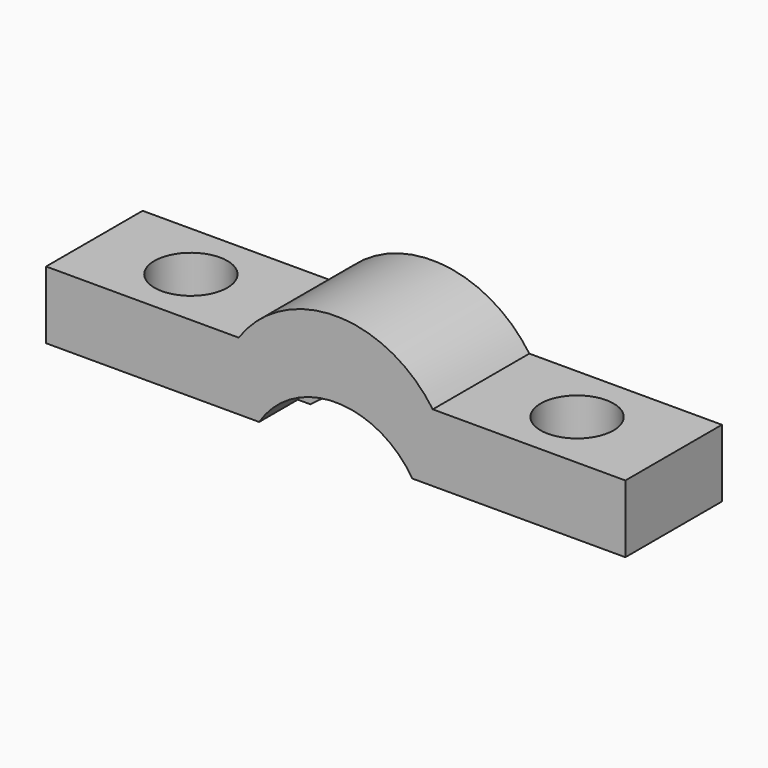
from build123d import *

# Parameters (mm, degrees)
SKETCH_W        = 24
SKETCH_H        = 5
PAD_DEPTH       = 5
SKETCH001_R     = 3.75
POCKET_DEPTH    = 2
SKETCH002_R     = 3.75
POCKET001_DEPTH = 2
SKETCH003_R     = 4
POCKET002_DEPTH = 5
SKETCH004_R     = 1.51
POCKET003_DEPTH = 3


with BuildPart() as part:
    # Sketch → Pad (new body)
    with BuildSketch(Plane.XY):
        Rectangle(SKETCH_W, SKETCH_H)
    extrude(amount=PAD_DEPTH)

    # Sketch001 (on Face3 of Pad) → Pocket (cut)
    with BuildSketch(Plane.XZ.offset(2.5)):
        with Locations((0, -2)):
            Circle(SKETCH001_R)
    extrude(amount=-POCKET_DEPTH, mode=Mode.SUBTRACT)

    # Sketch002 (on Face1 of Pocket) → Pocket001 (cut)
    with BuildSketch(Plane(origin=(0, 2.5, 0), x_dir=(-1, 0, 0), z_dir=(0, 1, 0))):
        with Locations((0, -2)):
            Circle(SKETCH002_R)
    extrude(amount=-POCKET001_DEPTH, mode=Mode.SUBTRACT)

    # Sketch003 (on Face7 of Pocket001) → Pocket002 (cut)
    with BuildSketch(Plane.XZ.offset(2.5)):
        with Locations((0, -3)):
            Circle(SKETCH003_R)
        with BuildLine():
            ThreePointArc((4.021194, 2.8), (0, 4.9), (-4.021194, 2.8))
            Line((-4.021194, 2.8), (-12, 2.8))
            Line((-12, 2.8), (-12, 5))
            Line((-12, 5), (12, 5))
            Line((12, 2.8), (12, 5))
            Line((4.021194, 2.8), (12, 2.8))
        make_face()
    extrude(amount=-POCKET002_DEPTH, mode=Mode.SUBTRACT)

    # Sketch004 (on Face8 of Pocket002) → Pocket003 (cut)
    with BuildSketch(Plane.XY.offset(2.8)):
        with Locations((-8, 0)):
            Circle(SKETCH004_R)
        with Locations((8, 0)):
            Circle(SKETCH004_R)
    extrude(amount=-POCKET003_DEPTH, mode=Mode.SUBTRACT)


solid = part.part
